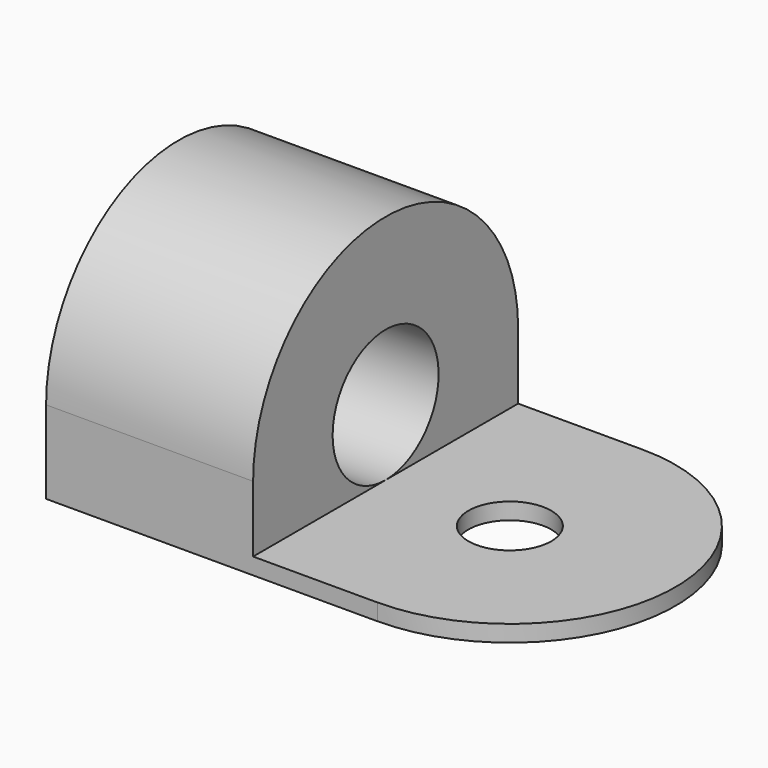
from build123d import *

# Parameters (mm, degrees)
SKETCH001_R      = 8
EXTRUDE001_DEPTH = 25
SKETCH_R         = 5
EXTRUDE_DEPTH    = 2


with BuildPart() as lateral:
    # Sketch001 (on Face4 of Extrude) → Extrude001 (new body)
    with BuildSketch(Plane(origin=(0, 0, 0), x_dir=(0, -1, 0), z_dir=(-1, 0, 0))):
        with BuildLine():
            Line((-40, 0), (-40, 10))
            ThreePointArc((0, 10), (-20, 30), (-40, 10))
            Line((0, 10), (0, 0))
            Line((-40, 0), (0, 0))
        make_face()
        with Locations((-20, 10)):
            Circle(SKETCH001_R, mode=Mode.SUBTRACT)
    extrude(amount=-EXTRUDE001_DEPTH)


with BuildPart() as fusion:
    # Sketch → Extrude (new body)
    with BuildSketch(Plane.XY):
        with BuildLine():
            Line((0, 0), (40, 0))
            ThreePointArc((40, 0), (60, 20), (40, 40))
            Line((40, 40), (0, 40))
            Line((0, 40), (0, 0))
        make_face()
        with Locations((40, 20)):
            Circle(SKETCH_R, mode=Mode.SUBTRACT)
    extrude(amount=EXTRUDE_DEPTH)

    # Fusion: union LATERAL
    add(lateral.part)


solid = fusion.part
